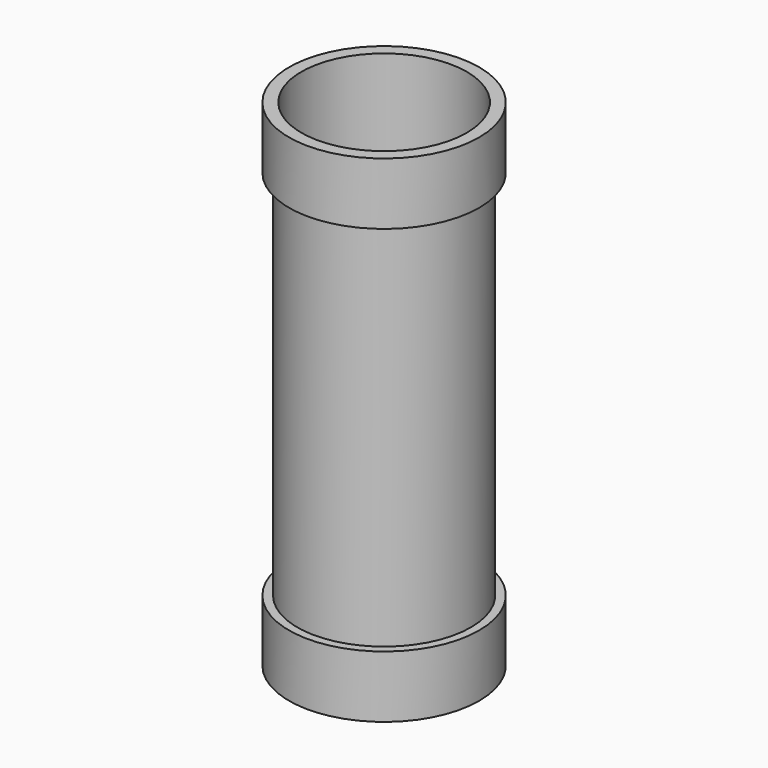
from build123d import *

# Parameters (mm, degrees)
F0_R     = 58.42
F3_DEPTH = 152.4
F4_DEPTH = 114.3
F1_R     = 53.34
F5_DEPTH = 114.3
F2_R     = 50.8
F6_DEPTH = 152.4


with BuildPart() as f3:
    # F0 (on Top) → F3 (new body, symmetric)
    with BuildSketch(Plane.XY):
        Circle(F0_R)
    extrude(amount=F3_DEPTH, both=True)

    # F0 (on Top) → F4 (cut, symmetric)
    with BuildSketch(Plane.XY):
        Circle(F0_R)
    extrude(amount=F4_DEPTH, both=True, mode=Mode.SUBTRACT)

    # F1 (on Top) → F5 (join, symmetric)
    with BuildSketch(Plane.XY):
        Circle(F1_R)
    extrude(amount=F5_DEPTH, both=True)

    # F2 (on Top) → F6 (cut, symmetric)
    with BuildSketch(Plane.XY):
        Circle(F2_R)
    extrude(amount=F6_DEPTH, both=True, mode=Mode.SUBTRACT)


solid = f3.part
